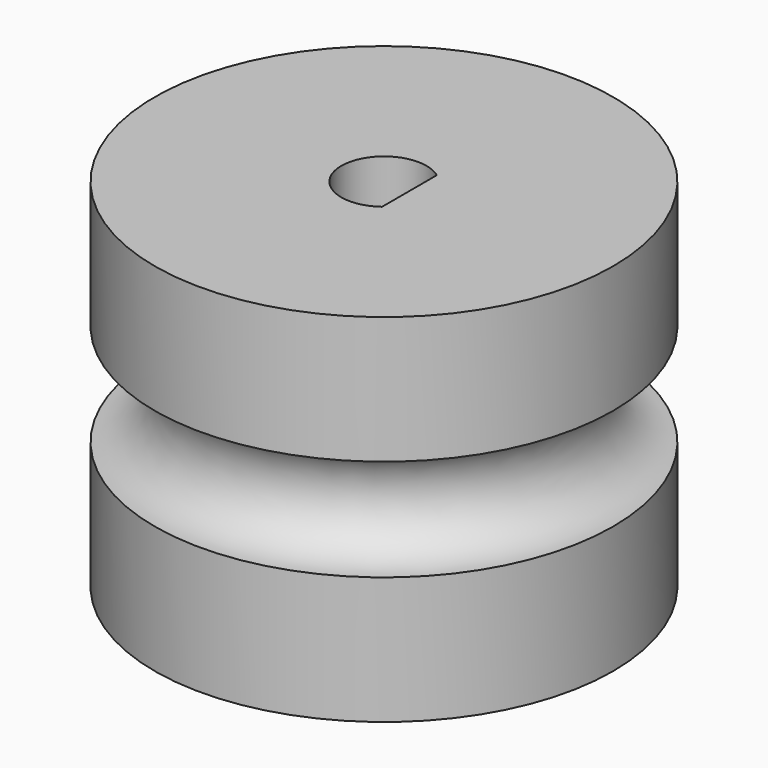
from build123d import *

# Parameters (mm, degrees)
BOX_W             = 5
BOX_H             = 6
BOX_DEPTH         = 8
CYLINDER001_R     = 1.675
CYLINDER001_DEPTH = 8
TORUS_R           = 2
CYLINDER_R        = 9
CYLINDER_DEPTH    = 14


with BuildPart() as d:
    # Box → Box (new body)
    with BuildSketch(Plane(origin=(1, -3, 15), x_dir=(1, 0, 0), z_dir=(0, 0, 1))):
        with Locations((2.5, 3)):
            Rectangle(BOX_W, BOX_H)
    extrude(amount=BOX_DEPTH)


with BuildPart() as eje_d:
    # Cylinder001 → Cylinder001 (new body)
    with BuildSketch(Plane.XY.offset(15)):
        Circle(CYLINDER001_R)
    extrude(amount=CYLINDER001_DEPTH)

    # Cut: cut D
    add(d.part, mode=Mode.SUBTRACT)


with BuildPart() as eje_d_1:
    # Cut placement: moved
    add(eje_d.part.moved(Location((0, 0, -9))))


with BuildPart() as obj1:
    # Torus → Torus (revolve)
    with BuildSketch(Plane(origin=(0, 0, 7), x_dir=(1, 0, 0), z_dir=(0, -1, 0))):
        with Locations((9, 0)):
            Circle(TORUS_R)
    revolve(axis=Axis((0, 0, 7), (0, 0, 1)))


with BuildPart() as obj2:
    # Cylinder → Cylinder (new body)
    with BuildSketch(Plane.XY):
        Circle(CYLINDER_R)
    extrude(amount=CYLINDER_DEPTH)

    # Cut001: cut obj1
    add(obj1.part, mode=Mode.SUBTRACT)

    # Cut002: cut EJE + D
    add(eje_d_1.part, mode=Mode.SUBTRACT)


solid = obj2.part
